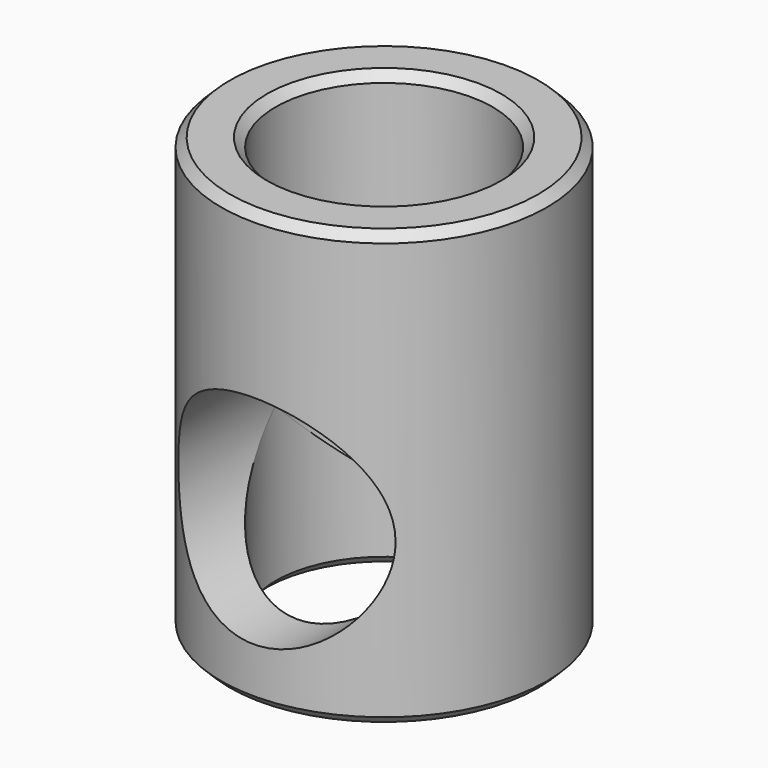
from build123d import *

# Parameters (mm, degrees)
F0_R     = 9.525
F0_R_2   = 6.35
F1_DEPTH = 25.4
F3_DEPTH = 12.7
F4_SIZE  = 0.508


with BuildPart() as f1:
    # F0 (on Top) → F1 (new body)
    with BuildSketch(Plane.XY):
        Circle(F0_R)
        Circle(F0_R_2, mode=Mode.SUBTRACT)
    extrude(amount=F1_DEPTH)

    # F2 (on Front) → F3 (cut, symmetric)
    with BuildSketch(Plane.XZ):
        with BuildLine():
            ThreePointArc((-6.35, 9.525), (0, 3.175), (6.35, 9.525))
            ThreePointArc((6.35, 9.525), (0, 15.875), (-6.35, 9.525))
        make_face()
    extrude(amount=F3_DEPTH, both=True, mode=Mode.SUBTRACT)

    # F4
    f4_edges = [f1.edges().sort_by_distance(p)[0] for p in [
        (-6.35, 0, 25.4),
        (-9.525, 0, 25.4),
        (-6.35, 0, 0),
        (-9.525, 0, 0),
    ]]
    chamfer(f4_edges, length=F4_SIZE)


solid = f1.part
